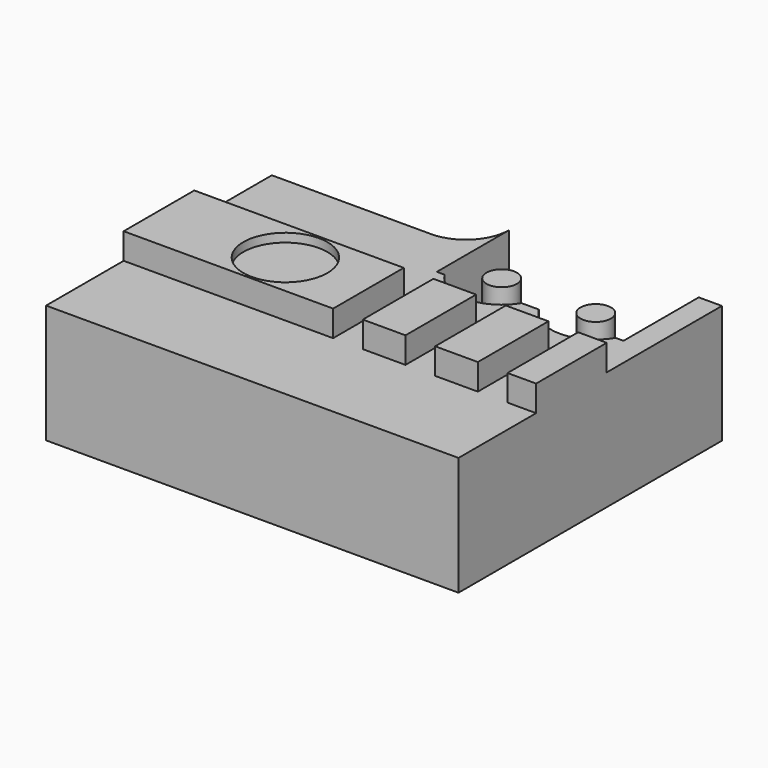
from build123d import *

# Parameters (mm, degrees)
PAD004_DEPTH    = 8.2
SKETCH014_W     = 28.5
SKETCH014_H     = 6.1
PAD005_DEPTH    = 1.8
SKETCH015_R     = 2.9
POCKET004_DEPTH = 0.6
SKETCH016_W     = 2.05
SKETCH016_H     = 6.1
POCKET005_DEPTH = 1.8
SKETCH018_R     = 1.05
POCKET007_DEPTH = 6


with BuildPart() as part:
    # Sketch013 → Pad004 (new body)
    with BuildSketch(Plane.XY):
        with BuildLine():
            Line((0, 0), (28.5, 0))
            Line((28.5, 0), (28.5, 22.75))
            Line((28.5, 22.75), (14, 22.75))
            Line((14, 22.75), (14, 22.5))
            ThreePointArc((11, 19.5), (13.12132, 20.37868), (14, 22.5))
            Line((11, 19.5), (0, 19.5))
            Line((0, 19.5), (0, 0))
        make_face()
    extrude(amount=PAD004_DEPTH)

    # Sketch014 (on Face9 of Pad004) → Pad005 (join)
    with BuildSketch(Plane.XY.offset(8.2)):
        with Locations((14.25, 9.75)):
            Rectangle(SKETCH014_W, SKETCH014_H)
    extrude(amount=PAD005_DEPTH)

    # Sketch015 (on Face11 of Pad005) → Pocket004 (cut)
    with BuildSketch(Plane.XY.offset(10)):
        with Locations((8.735056, 9.75)):
            Circle(SKETCH015_R)
    extrude(amount=-POCKET004_DEPTH, mode=Mode.SUBTRACT)

    # Sketch016 (on Face10 of Pocket004) → Pocket005 (cut)
    with BuildSketch(Plane.XY.offset(10)):
        with Locations((15.5, 9.75)):
            Rectangle(SKETCH016_W, SKETCH016_H)
        Polygon((21.525, 12.8), (21.525, 6.7), (19.475, 6.7), (19.475, 12.8), (20.5, 12.8), align=None)
        with Locations((25.5, 9.75)):
            Rectangle(SKETCH016_W, SKETCH016_H)
    extrude(amount=-POCKET005_DEPTH, mode=Mode.SUBTRACT)

    # Sketch018 (on Face19 of Clone001) → Pocket007 (cut)
    with BuildSketch(Plane.XY.offset(8.2)):
        with BuildLine():
            Line((14, 22.75), (26.9, 22.75))
            Line((26.9, 22.75), (26.9, 16.25))
            Line((26.355184, 16.25), (26.9, 16.25))
            ThreePointArc((21.044816, 16.25), (23.7, 14.75), (26.355184, 16.25))
            Line((20.45, 16.25), (21.044816, 16.25))
            Line((19.855184, 16.25), (20.45, 16.25))
            ThreePointArc((14.544816, 16.25), (17.2, 14.75), (19.855184, 16.25))
            Line((14, 16.25), (14.544816, 16.25))
            Line((14, 16.25), (14, 22.75))
        make_face()
        with Locations((17.2, 17.85)):
            Circle(SKETCH018_R, mode=Mode.SUBTRACT)
        with Locations((23.7, 17.85)):
            Circle(SKETCH018_R, mode=Mode.SUBTRACT)
    extrude(amount=-POCKET007_DEPTH, mode=Mode.SUBTRACT)


solid = part.part
